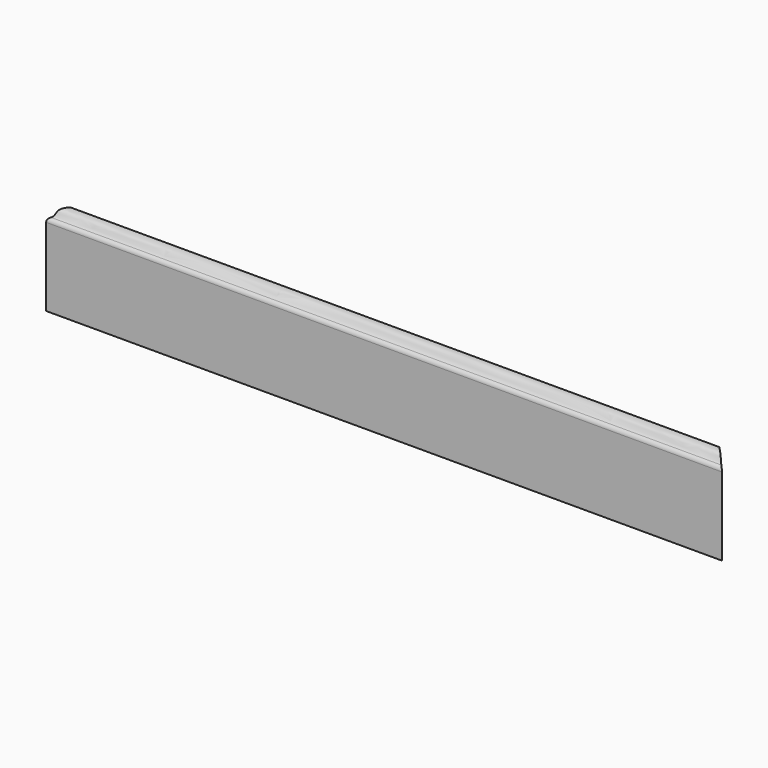
from build123d import *

# Parameters (mm, degrees)
F0_W     = 952.5
F0_H     = 127
F1_DEPTH = 19.05
F3_DEPTH = 952.501
F5_DEPTH = 127.0010001


with BuildPart() as f1:
    # F0 (on Front) → F1 (new body)
    with BuildSketch(Plane.XZ):
        Rectangle(F0_W, F0_H)
    extrude(amount=F1_DEPTH)

    # F2 (on face) → F3 (cut, through all)
    with BuildSketch(Plane.YZ.offset(476.25)):
        with BuildLine():
            add(Edge.make_bspline(
                [(0, 63.5), (-13.8609133718, 63.5), (-9.1129885479, 55.0204556119), (-15.256598862, 52.3182653746)],
                knots=[0, 0, 0, 0, 19.4568359991, 19.4568359991, 19.4568359991, 19.4568359991], degree=3))
            Line((0, 63.5), (-19.05, 63.5))
            Line((-19.05, 63.5), (-19.05, 51.528967917))
            add(Edge.make_bspline(
                [(-15.256598862, 52.3182653746), (-16.2172018341, 51.8957561593), (-17.4440793365, 51.6144907855), (-19.05, 51.528967917)],
                knots=[19.4568359991, 19.4568359991, 19.4568359991, 19.4568359991, 22.4990690726, 22.4990690726, 22.4990690726, 22.4990690726], degree=3))
        make_face()
        with BuildLine():
            ThreePointArc((-19.05, 46.505666794), (-18.0177487141, 49.976120455), (-15.256598862, 52.3182653746))
            add(Edge.make_bspline(
                [(-15.256598862, 52.3182653746), (-16.2172018341, 51.8957561593), (-17.4440793365, 51.6144907855), (-19.05, 51.528967917)],
                knots=[19.4568359991, 19.4568359991, 19.4568359991, 19.4568359991, 22.4990690726, 22.4990690726, 22.4990690726, 22.4990690726], degree=3))
            Line((-19.05, 51.528967917), (-19.05, 46.505666794))
        make_face()
    extrude(amount=-F3_DEPTH, mode=Mode.SUBTRACT)

    # F4 (on face) → F5 (cut, through all)
    with BuildSketch(Plane(origin=(0, 0, -63.5), x_dir=(1, 0, 0), z_dir=(0, 0, -1))):
        Polygon((-457.2, 0), (-476.25, 19.05), (-476.25, 0), align=None)
        Polygon((476.25, 19.05), (457.2, 0), (476.25, 0), align=None)
    extrude(amount=-F5_DEPTH, mode=Mode.SUBTRACT)


solid = f1.part
